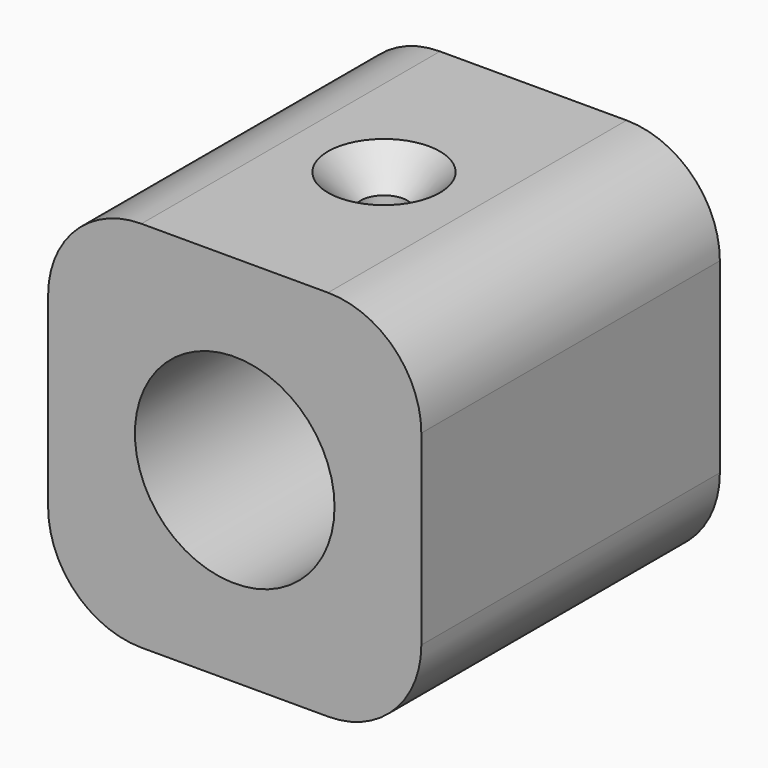
from build123d import *

# Parameters (mm, degrees)
F0_W           = 25.4
F0_H           = 25.4
F0_R           = 6.793342
F1_DEPTH       = 12.7
F2_R           = 6.35
F4_D           = 3.175
F4_DEPTH       = 12.7
F4_CSINK_D     = 7.62
F4_CSINK_ANGLE = 90


with BuildPart() as f1:
    # F0 (on Front) → F1 (new body, symmetric)
    with BuildSketch(Plane.XZ):
        Rectangle(F0_W, F0_H)
        Circle(F0_R, mode=Mode.SUBTRACT)
    extrude(amount=F1_DEPTH, both=True)

    # F2
    f2_edges = [f1.edges().sort_by_distance(p)[0] for p in [
        (12.7, 0, 12.7),
        (-12.7, 0, 12.7),
        (-12.7, 0, -12.7),
        (12.7, 0, -12.7),
    ]]
    fillet(f2_edges, radius=F2_R)

    # F4
    with Locations(Plane.XY.offset(12.7)):
        with Locations((0, 0)):
            CounterSinkHole(F4_D / 2, F4_CSINK_D / 2, depth=F4_DEPTH, counter_sink_angle=F4_CSINK_ANGLE)


solid = f1.part
